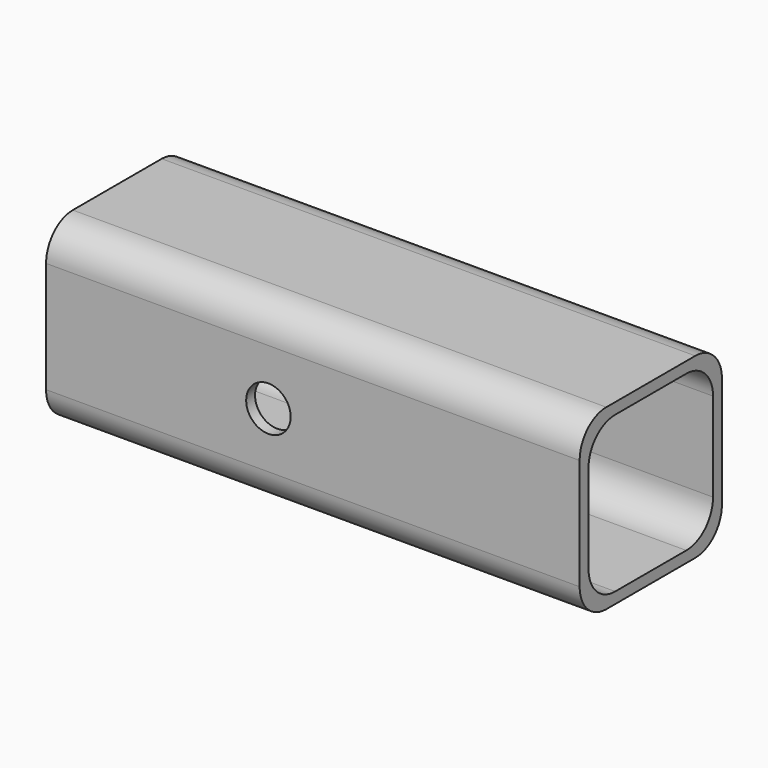
from build123d import *

# Parameters (mm, degrees)
F0_W     = 50.8
F0_H     = 50.8
F1_DEPTH = 152.4
F2_W     = 44.45
F2_H     = 44.45
F3_DEPTH = 876.3
F4_R     = 9.525
F6_D     = 12.7
F6_DEPTH = 127


with BuildPart() as f1:
    # F0 (on Right) → F1 (new body)
    with BuildSketch(Plane.YZ):
        with Locations((25.4, 25.4)):
            Rectangle(F0_W, F0_H)
    extrude(amount=-F1_DEPTH)

    # F2 (on face) → F3 (cut)
    with BuildSketch(Plane.YZ):
        with Locations((25.4, 25.4)):
            Rectangle(F2_W, F2_H)
    extrude(amount=-F3_DEPTH, mode=Mode.SUBTRACT)

    # F4
    f4_edges = [f1.edges().sort_by_distance(p)[0] for p in [
        (-76.2, 3.175, 3.175),
        (-76.2, 47.625, 3.175),
        (-76.2, 47.625, 47.625),
        (-76.2, 3.175, 47.625),
        (-76.2, 50.8, 0),
        (-76.2, 50.8, 50.8),
        (-76.2, 0, 50.8),
        (-76.2, 0, 0),
    ]]
    fillet(f4_edges, radius=F4_R)

    # F6
    with Locations(Plane.XZ):
        with Locations((-88.9, 25.4)):
            Hole(F6_D / 2, depth=F6_DEPTH)


solid = f1.part
